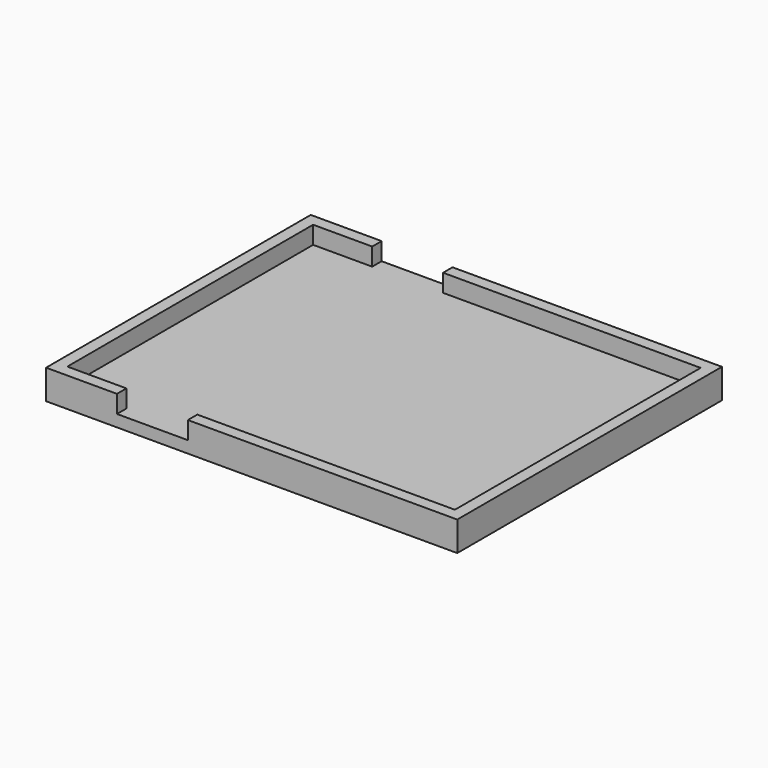
from build123d import *

# Parameters (mm, degrees)
F0_W     = 34.8
F0_H     = 28
F1_DEPTH = 2.5
F2_W     = 32.8
F2_H     = 26
F3_DEPTH = 1.5
F4_W     = 6
F4_H     = 28
F5_DEPTH = 1.5


with BuildPart() as f1:
    # F0 (on Top) → F1 (new body)
    with BuildSketch(Plane.XY):
        Rectangle(F0_W, F0_H)
    extrude(amount=F1_DEPTH)

    # F2 (on face) → F3 (cut)
    with BuildSketch(Plane.XY.offset(2.5)):
        Rectangle(F2_W, F2_H)
    extrude(amount=-F3_DEPTH, mode=Mode.SUBTRACT)

    # F4 (on face) → F5 (cut)
    with BuildSketch(Plane.XY.offset(1)):
        with Locations((-8.4, 0)):
            Rectangle(F4_W, F4_H)
    extrude(amount=F5_DEPTH, mode=Mode.SUBTRACT)


solid = f1.part
